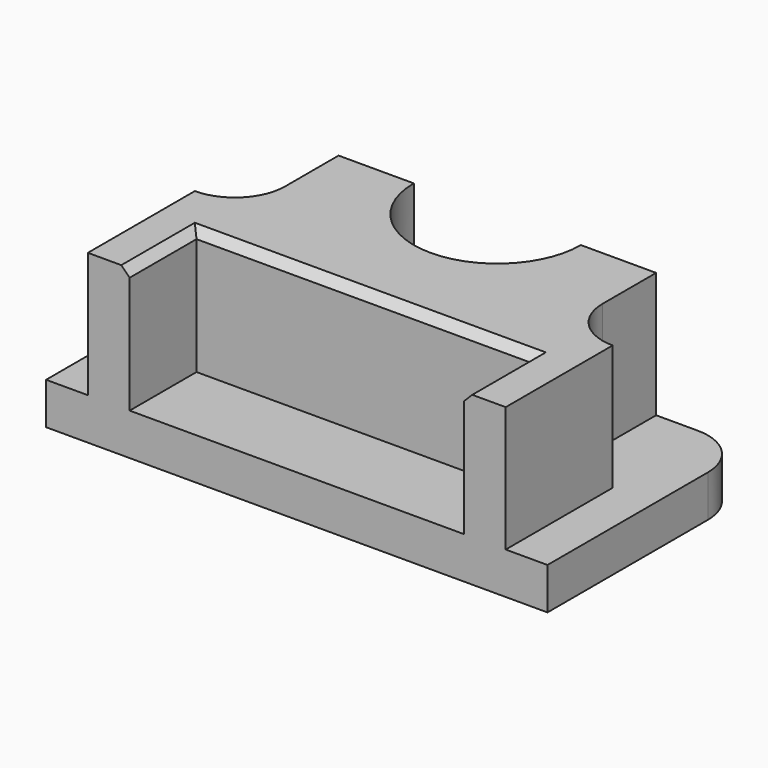
from build123d import *

# Parameters (mm, degrees)
F0_W     = 76.2
F0_H     = 38.1
F1_DEPTH = 6.35
F3_DEPTH = 19.05
F5_DEPTH = 25.401
F6_W     = 7.62
F6_H     = 10.16
F7_DEPTH = 19.05
F8_SIZE  = 1.27
F9_R     = 7.62


with BuildPart() as f1:
    # F0 (on Top) → F1 (new body)
    with BuildSketch(Plane.XY):
        Rectangle(F0_W, F0_H)
    extrude(amount=F1_DEPTH)

    # F2 (on face) → F3 (join)
    with BuildSketch(Plane.XY.offset(6.35)):
        Polygon((31.75, 19.05), (-31.75, 19.05), (-31.75, -19.05), (-25.4, -19.05), (-25.4, -6.35), (25.4, -6.35), (25.4, -19.05), (31.75, -19.05), align=None)
    extrude(amount=F3_DEPTH)

    # F4 (on face) → F5 (cut, through all)
    with BuildSketch(Plane.XY.offset(25.4)):
        with BuildLine():
            ThreePointArc((-12.7, 19.05), (0, 6.35), (12.7, 19.05))
            Line((12.7, 19.05), (-12.7, 19.05))
        make_face()
    extrude(amount=-F5_DEPTH, mode=Mode.SUBTRACT)

    # F6 (on face) → F7 (cut, through all)
    with BuildSketch(Plane.XY.offset(25.4)):
        with BuildLine():
            Line((31.75, 1.27), (31.75, 8.89))
            Line((31.75, 8.89), (24.13, 8.89))
            ThreePointArc((24.13, 8.89), (26.3618463274, 3.5018463274), (31.75, 1.27))
        make_face()
        with Locations((27.94, 13.97)):
            Rectangle(F6_W, F6_H)
        with BuildLine():
            Line((-24.13, 8.89), (-24.13, 19.05))
            Line((-24.13, 19.05), (-31.75, 19.05))
            Line((-31.75, 19.05), (-31.75, 1.27))
            ThreePointArc((-31.75, 1.27), (-26.3618463274, 3.5018463274), (-24.13, 8.89))
        make_face()
    extrude(amount=-F7_DEPTH, mode=Mode.SUBTRACT)

    # F8
    f8_edges = [f1.edges().sort_by_distance(p)[0] for p in [
        (-25.4, -12.7, 25.4),
        (0, -6.35, 25.4),
        (25.4, -12.7, 25.4),
    ]]
    chamfer(f8_edges, length=F8_SIZE)

    # F9
    f9_edges = [f1.edges().sort_by_distance(p)[0] for p in [
        (-38.1, 19.05, 3.175),
        (38.1, 19.05, 3.175),
    ]]
    fillet(f9_edges, radius=F9_R)


solid = f1.part
